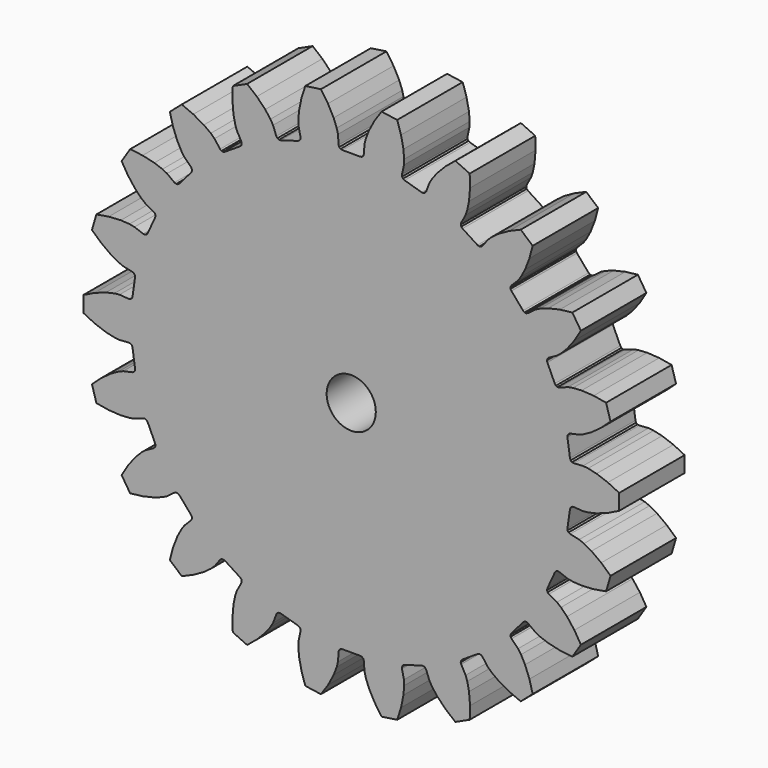
from build123d import *

# Parameters (mm, degrees)
F1_DEPTH = 5
F2_R     = 1.5
F3_DEPTH = 5


with BuildPart() as f1:
    # F0 (on Front) → F1 (new body)
    with BuildSketch(Plane.XZ):
        Polygon((3.039477, -15.391243), (3.186698, -14.670204), (3.228917, -14.146246), (3.216602, -13.831089), (3.096885, -13.28005), (3.100508, -13.169287), (3.159026, -13.075175), (3.256761, -13.022932), (4.300967, -12.716325), (4.411431, -12.707436), (4.511541, -12.75497), (4.574471, -12.846191), (4.771674, -13.374479), (4.931701, -13.646264), (5.25049, -14.06422), (5.764163, -14.591202), (6.356946, -15.07839), (7.232572, -14.678504), (7.252571, -13.91147), (7.190689, -13.178161), (7.083581, -12.663533), (6.982975, -12.364611), (6.712862, -11.869621), (6.685132, -11.762324), (6.714766, -11.655538), (6.793823, -11.577876), (7.70935, -10.989502), (7.812836, -10.949852), (7.922282, -10.967257), (8.008363, -11.037053), (8.346413, -11.488382), (8.576529, -11.704074), (9.000157, -12.015286), (9.641491, -12.376204), (10.347518, -12.67665), (11.075015, -12.046271), (10.878105, -11.304672), (10.612132, -10.618502), (10.364376, -10.154896), (10.183629, -9.896426), (9.785002, -9.497586), (9.728167, -9.402448), (9.726516, -9.291639), (9.78049, -9.194849), (10.493168, -8.372375), (10.581291, -8.305176), (10.691207, -8.291041), (10.793465, -8.333758), (11.244976, -8.671566), (11.526538, -8.813689), (12.020685, -8.992946), (12.737722, -9.158559), (13.499796, -9.247924), (14.020226, -8.43812), (13.622359, -7.782037), (13.173844, -7.198595), (12.80551, -6.823569), (12.559266, -6.626492), (12.06442, -6.356113), (11.983084, -6.280842), (11.950281, -6.174986), (11.9748, -6.066911), (12.426892, -5.076968), (12.492513, -4.987664), (12.593995, -4.943134), (12.704145, -4.955311), (13.232538, -5.152231), (13.542735, -5.209272), (14.067368, -5.24205), (14.802019, -5.198942), (15.558401, -5.069986), (15.829601, -4.146363), (15.263011, -3.628948), (14.668289, -3.1955), (14.209219, -2.939437), (13.917426, -2.819718), (13.366451, -2.699706), (13.267202, -2.650398), (13.205905, -2.558073), (13.198983, -2.447467), (13.353862, -1.370255), (13.391665, -1.266081), (13.476491, -1.194764), (13.58561, -1.175415), (14.148079, -1.215492), (14.461781, -1.18283), (14.974397, -1.066475), (15.667145, -0.818137), (16.356556, -0.481308), (16.356556, 0.481308), (15.667145, 0.818137), (14.974397, 1.066475), (14.461781, 1.18283), (14.148079, 1.215492), (13.58561, 1.175415), (13.476491, 1.194764), (13.391665, 1.266081), (13.353862, 1.370255), (13.198983, 2.447467), (13.205905, 2.558073), (13.267202, 2.650398), (13.366451, 2.699706), (13.917426, 2.819718), (14.209219, 2.939437), (14.668289, 3.1955), (15.263011, 3.628948), (15.829601, 4.146363), (15.558401, 5.069986), (14.802019, 5.198942), (14.067368, 5.24205), (13.542735, 5.209272), (13.232538, 5.152231), (12.704145, 4.955311), (12.593995, 4.943134), (12.492513, 4.987664), (12.426892, 5.076968), (11.9748, 6.066911), (11.950281, 6.174986), (11.983084, 6.280842), (12.06442, 6.356113), (12.559266, 6.626492), (12.80551, 6.823569), (13.173844, 7.198595), (13.622359, 7.782037), (14.020226, 8.43812), (13.499796, 9.247924), (12.737722, 9.158559), (12.020685, 8.992946), (11.526538, 8.813689), (11.244976, 8.671566), (10.793465, 8.333758), (10.691207, 8.291041), (10.581291, 8.305176), (10.493168, 8.372375), (9.78049, 9.194849), (9.726516, 9.291639), (9.728167, 9.402448), (9.785002, 9.497586), (10.183629, 9.896426), (10.364376, 10.154896), (10.612132, 10.618502), (10.878105, 11.304672), (11.075015, 12.046271), (10.347518, 12.67665), (9.641491, 12.376204), (9.000157, 12.015286), (8.576529, 11.704074), (8.346413, 11.488382), (8.008363, 11.037053), (7.922282, 10.967257), (7.812836, 10.949852), (7.70935, 10.989502), (6.793823, 11.577876), (6.714766, 11.655538), (6.685132, 11.762324), (6.712862, 11.869621), (6.982975, 12.364611), (7.083581, 12.663533), (7.190689, 13.178161), (7.252571, 13.91147), (7.232572, 14.678504), (6.356946, 15.07839), (5.764163, 14.591202), (5.25049, 14.06422), (4.931701, 13.646264), (4.771674, 13.374479), (4.574471, 12.846191), (4.511541, 12.75497), (4.411431, 12.707436), (4.300967, 12.716325), (3.256761, 13.022932), (3.159026, 13.075175), (3.100508, 13.169287), (3.096885, 13.28005), (3.216602, 13.831089), (3.228917, 14.146246), (3.186698, 14.670204), (3.039477, 15.391243), (2.80419, 16.121573), (1.851371, 16.258568), (1.419858, 15.624109), (1.075459, 14.973754), (0.887335, 14.482915), (0.810361, 14.177054), (0.769983, 13.614608), (0.735301, 13.509353), (0.652639, 13.43554), (0.544145, 13.412947), (-0.544145, 13.412947), (-0.652639, 13.43554), (-0.735301, 13.509353), (-0.769983, 13.614608), (-0.810361, 14.177054), (-0.887335, 14.482915), (-1.075459, 14.973754), (-1.419858, 15.624109), (-1.851371, 16.258568), (-2.80419, 16.121573), (-3.039477, 15.391243), (-3.186698, 14.670204), (-3.228917, 14.146246), (-3.216602, 13.831089), (-3.096885, 13.28005), (-3.100508, 13.169287), (-3.159026, 13.075175), (-3.256761, 13.022932), (-4.300967, 12.716325), (-4.411431, 12.707436), (-4.511541, 12.75497), (-4.574471, 12.846191), (-4.771674, 13.374479), (-4.931701, 13.646264), (-5.25049, 14.06422), (-5.764163, 14.591202), (-6.356946, 15.07839), (-7.232572, 14.678504), (-7.252571, 13.91147), (-7.190689, 13.178161), (-7.083581, 12.663533), (-6.982975, 12.364611), (-6.712862, 11.869621), (-6.685132, 11.762324), (-6.714766, 11.655538), (-6.793823, 11.577876), (-7.70935, 10.989502), (-7.812836, 10.949852), (-7.922282, 10.967257), (-8.008363, 11.037053), (-8.346413, 11.488382), (-8.576529, 11.704074), (-9.000157, 12.015286), (-9.641491, 12.376204), (-10.347518, 12.67665), (-11.075015, 12.046271), (-10.878105, 11.304672), (-10.612132, 10.618502), (-10.364376, 10.154896), (-10.183629, 9.896426), (-9.785002, 9.497586), (-9.728167, 9.402448), (-9.726516, 9.291639), (-9.78049, 9.194849), (-10.493168, 8.372375), (-10.581291, 8.305176), (-10.691207, 8.291041), (-10.793465, 8.333758), (-11.244976, 8.671566), (-11.526538, 8.813689), (-12.020685, 8.992946), (-12.737722, 9.158559), (-13.499796, 9.247924), (-14.020226, 8.43812), (-13.622359, 7.782037), (-13.173844, 7.198595), (-12.80551, 6.823569), (-12.559266, 6.626492), (-12.06442, 6.356113), (-11.983084, 6.280842), (-11.950281, 6.174986), (-11.9748, 6.066911), (-12.426892, 5.076968), (-12.492513, 4.987664), (-12.593995, 4.943134), (-12.704145, 4.955311), (-13.232538, 5.152231), (-13.542735, 5.209272), (-14.067368, 5.24205), (-14.802019, 5.198942), (-15.558401, 5.069986), (-15.829601, 4.146363), (-15.263011, 3.628948), (-14.668289, 3.1955), (-14.209219, 2.939437), (-13.917426, 2.819718), (-13.366451, 2.699706), (-13.267202, 2.650398), (-13.205905, 2.558073), (-13.198983, 2.447467), (-13.353862, 1.370255), (-13.391665, 1.266081), (-13.476491, 1.194764), (-13.58561, 1.175415), (-14.148079, 1.215492), (-14.461781, 1.18283), (-14.974397, 1.066475), (-15.667145, 0.818137), (-16.356556, 0.481308), (-16.356556, -0.481308), (-15.667145, -0.818137), (-14.974397, -1.066475), (-14.461781, -1.18283), (-14.148079, -1.215492), (-13.58561, -1.175415), (-13.476491, -1.194764), (-13.391665, -1.266081), (-13.353862, -1.370255), (-13.198983, -2.447467), (-13.205905, -2.558073), (-13.267202, -2.650398), (-13.366451, -2.699706), (-13.917426, -2.819718), (-14.209219, -2.939437), (-14.668289, -3.1955), (-15.263011, -3.628948), (-15.829601, -4.146363), (-15.558401, -5.069986), (-14.802019, -5.198942), (-14.067368, -5.24205), (-13.542735, -5.209272), (-13.232538, -5.152231), (-12.704145, -4.955311), (-12.593995, -4.943134), (-12.492513, -4.987664), (-12.426892, -5.076968), (-11.9748, -6.066911), (-11.950281, -6.174986), (-11.983084, -6.280842), (-12.06442, -6.356113), (-12.559266, -6.626492), (-12.80551, -6.823569), (-13.173844, -7.198595), (-13.622359, -7.782037), (-14.020226, -8.43812), (-13.499796, -9.247924), (-12.737722, -9.158559), (-12.020685, -8.992946), (-11.526538, -8.813689), (-11.244976, -8.671566), (-10.793465, -8.333758), (-10.691207, -8.291041), (-10.581291, -8.305176), (-10.493168, -8.372375), (-9.78049, -9.194849), (-9.726516, -9.291639), (-9.728167, -9.402448), (-9.785002, -9.497586), (-10.183629, -9.896426), (-10.364376, -10.154896), (-10.612132, -10.618502), (-10.878105, -11.304672), (-11.075015, -12.046271), (-10.347518, -12.67665), (-9.641491, -12.376204), (-9.000157, -12.015286), (-8.576529, -11.704074), (-8.346413, -11.488382), (-8.008363, -11.037053), (-7.922282, -10.967257), (-7.812836, -10.949852), (-7.70935, -10.989502), (-6.793823, -11.577876), (-6.714766, -11.655538), (-6.685132, -11.762324), (-6.712862, -11.869621), (-6.982975, -12.364611), (-7.083581, -12.663533), (-7.190689, -13.178161), (-7.252571, -13.91147), (-7.232572, -14.678504), (-6.356946, -15.07839), (-5.764163, -14.591202), (-5.25049, -14.06422), (-4.931701, -13.646264), (-4.771674, -13.374479), (-4.574471, -12.846191), (-4.511541, -12.75497), (-4.411431, -12.707436), (-4.300967, -12.716325), (-3.256761, -13.022932), (-3.159026, -13.075175), (-3.100508, -13.169287), (-3.096885, -13.28005), (-3.216602, -13.831089), (-3.228917, -14.146246), (-3.186698, -14.670204), (-3.039477, -15.391243), (-2.80419, -16.121573), (-1.851371, -16.258568), (-1.419858, -15.624109), (-1.075459, -14.973754), (-0.887335, -14.482915), (-0.810361, -14.177054), (-0.769983, -13.614608), (-0.735301, -13.509353), (-0.652639, -13.43554), (-0.544145, -13.412947), (0.544145, -13.412947), (0.652639, -13.43554), (0.735301, -13.509353), (0.769983, -13.614608), (0.810361, -14.177054), (0.887335, -14.482915), (1.075459, -14.973754), (1.419858, -15.624109), (1.851371, -16.258568), (2.80419, -16.121573), align=None)
    extrude(amount=F1_DEPTH)

    # F2 (on face) → F3 (cut, through all)
    with BuildSketch(Plane.XZ.offset(5)):
        Circle(F2_R)
    extrude(amount=-F3_DEPTH, mode=Mode.SUBTRACT)


solid = f1.part
